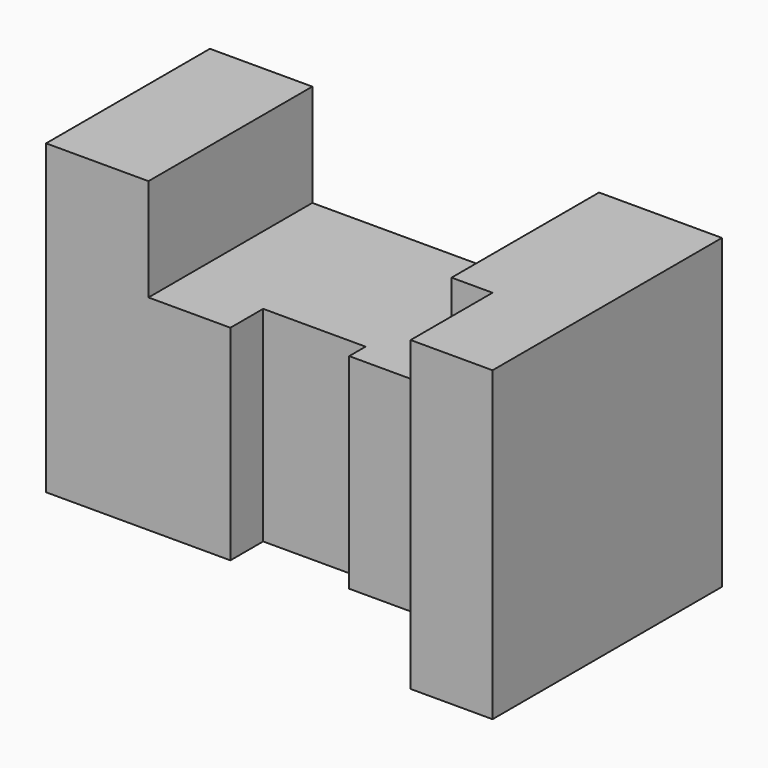
from build123d import *

# Parameters (mm, degrees)
F1_DEPTH = 75
F3_DEPTH = 25


with BuildPart() as f1:
    # F0 (on Top) → F1 (new body)
    with BuildSketch(Plane.XY):
        Polygon((0, 50), (0, 0), (45, 0), (45, 10), (70, 10), (70, 5), (105, 5), (105, -20), (125, -20), (125, 50), align=None)
    extrude(amount=F1_DEPTH)

    # F2 (on face) → F3 (cut)
    with BuildSketch(Plane.XY.offset(75)):
        Polygon((70, 5), (95, 5), (95, 50), (25, 50), (25, 0), (45, 0), (45, 10), (70, 10), align=None)
    extrude(amount=-F3_DEPTH, mode=Mode.SUBTRACT)


solid = f1.part
